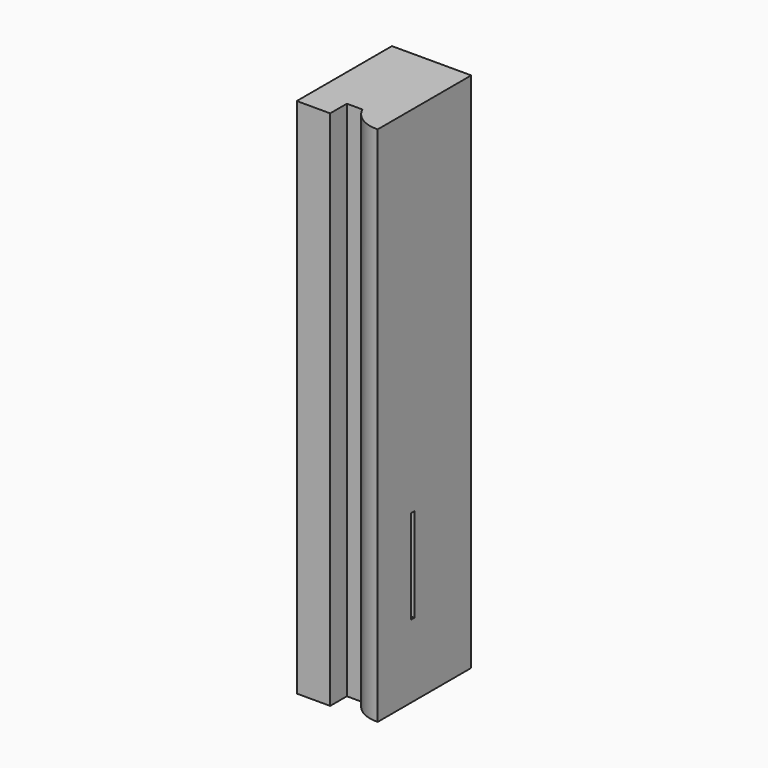
from build123d import *

# Parameters (mm, degrees)
PAD_DEPTH    = 250
SKETCH001_W  = 2
SKETCH001_H  = 45
POCKET_DEPTH = 20


with BuildPart() as part:
    # Sketch → Pad (new body)
    with BuildSketch(Plane.XY):
        with BuildLine():
            Line((0, 0), (0, 57))
            Line((0, 57), (38, 57))
            Line((38, 57), (38, 1))
            ThreePointArc((23.5, 10), (29.345332, 3.236924), (38, 1))
            Line((23.5, 10), (16, 10))
            Line((16, 10), (16, 0))
            Line((16, 0), (0, 0))
        make_face()
    extrude(amount=PAD_DEPTH)

    # Sketch001 (on Face3 of Pad) → Pocket (cut)
    with BuildSketch(Plane.YZ.offset(38)):
        with Locations((22, 57.5)):
            Rectangle(SKETCH001_W, SKETCH001_H)
    extrude(amount=-POCKET_DEPTH, mode=Mode.SUBTRACT)


solid = part.part
